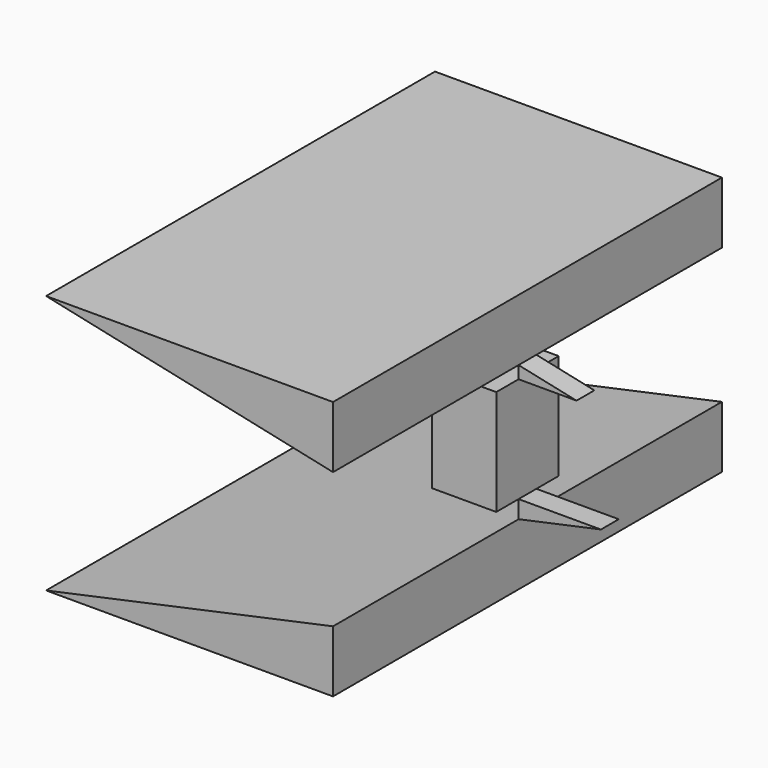
from build123d import *

# Parameters (mm, degrees)
F0_W     = 23.3653002378
F0_H     = 38.4804269521
F1_DEPTH = 14.224
F2_DEPTH = 88.646
F3_DEPTH = 4.064


with BuildPart() as f1:
    # F0 (on Front) → F1 (new body, symmetric)
    with BuildSketch(Plane.XZ):
        Rectangle(F0_W, F0_H)
    extrude(amount=F1_DEPTH, both=True)


with BuildPart() as f2:
    # F0 (on Front) → F2 (new body, symmetric)
    with BuildSketch(Plane.XZ):
        Polygon((11.6826501189, -48.2201610969), (11.6826501189, -25.7036866204), (-92.9653498811, -48.2201610969), align=None)
    extrude(amount=F2_DEPTH, both=True)


with BuildPart() as f2b:
    # F0 (on Front) → F2, piece 2 (new body, symmetric)
    with BuildSketch(Plane.XZ):
        Polygon((-92.9653498811, 46.3066697121), (11.6826501189, 23.7904659811), (11.6826501189, 46.3066697121), align=None)
    extrude(amount=F2_DEPTH, both=True)


with BuildPart() as f3:
    # F0 (on Front) → F3 (new body, symmetric)
    with BuildSketch(Plane.XZ):
        Polygon((41.7224122633, -19.240213476), (11.6826501189, -19.240213476), (11.6826501189, -25.7036866204), align=None)
    extrude(amount=F3_DEPTH, both=True)


with BuildPart() as f3b:
    # F0 (on Front) → F3, piece 2 (new body, symmetric)
    with BuildSketch(Plane.XZ):
        Polygon((11.6826501189, 23.7904659811), (11.6826501189, 19.240213476), (32.8307455013, 19.240213476), align=None)
    extrude(amount=F3_DEPTH, both=True)


solid = Compound([f1.part, f2.part, f2b.part, f3.part, f3b.part])
